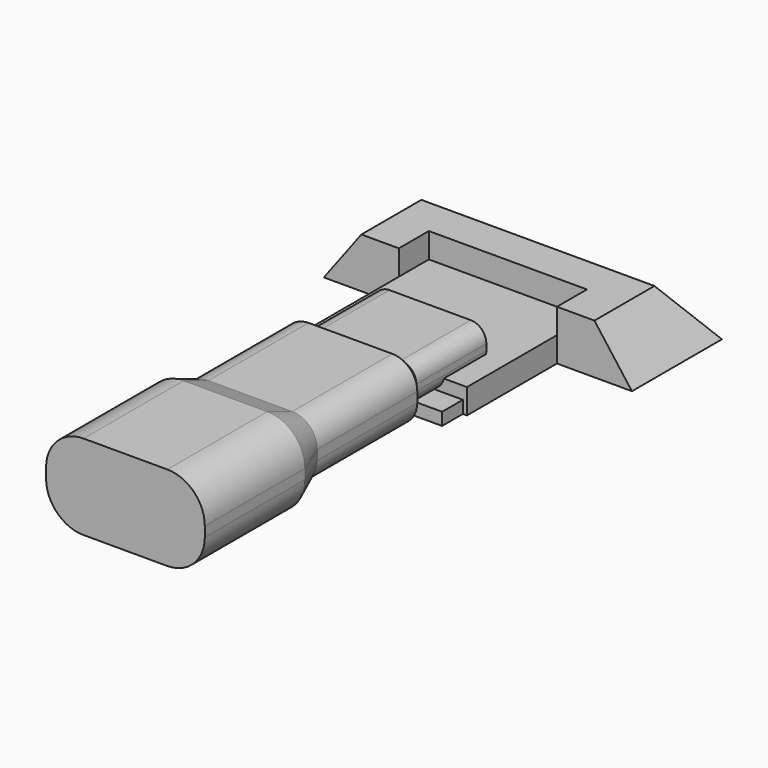
from build123d import *

# Parameters (mm, degrees)
SKETCH_W            = 12
SKETCH_H            = 13.66
PAD_DEPTH           = 1
PAD001_DEPTH        = 7
SKETCH002_R         = 0.5
POCKET_DEPTH        = 1.001
LINEARPATTERN_COUNT = 4
LINEARPATTERN_PITCH = 2.666667
SKETCH007_W         = 12.65
SKETCH007_H         = 2
PAD004_DEPTH        = 12
PAD002_DEPTH        = 10
PAD003_DEPTH        = 10


with BuildPart() as obj1:
    # Sketch → Pad (new body)
    with BuildSketch(Plane.XY):
        Rectangle(SKETCH_W, SKETCH_H)
    extrude(amount=PAD_DEPTH)

    # Sketch001 (on Face3 of Pad) → Pad001 (join)
    with BuildSketch(Plane.XZ.offset(7.53)):
        with BuildLine():
            Line((-3.25, 4), (3.25, 4))
            ThreePointArc((4.5, 2.75), (4.133883, 3.633883), (3.25, 4))
            Line((4.5, 2.75), (4.5, 2.25))
            ThreePointArc((3.25, 1), (4.133883, 1.366117), (4.5, 2.25))
            Line((3.25, 1), (-3.25, 1))
            ThreePointArc((-4.5, 2.25), (-4.133883, 1.366117), (-3.25, 1))
            Line((-4.5, 2.25), (-4.5, 2.75))
            ThreePointArc((-3.25, 4), (-4.133883, 3.633883), (-4.5, 2.75))
        make_face()
    extrude(amount=-PAD001_DEPTH)

    # Sketch002 (on Face5 of Pad001) → Pocket (cut, through all)
    with BuildSketch(Plane.XY.offset(1)):
        with Locations((-4, 4.83)):
            Circle(SKETCH002_R)
    pocket = extrude(amount=-POCKET_DEPTH, mode=Mode.SUBTRACT)

    # LinearPattern: Pocket ×4
    with Locations(*[(i * LINEARPATTERN_PITCH, 0, 0) for i in range(1, LINEARPATTERN_COUNT)]):
        add(pocket, mode=Mode.SUBTRACT)


with BuildPart() as obj2:
    # Sketch003 → AdditiveLoft section 0
    with BuildSketch(Plane.XY.offset(4)):
        Polygon((-9.325, 10.25), (9.325, 10.25), (9.325, 4.25), (6.325, 4.25), (6.325, 7.25), (-6.325, 7.25), (-6.325, 4.25), (-9.325, 4.25), align=None)
    # Sketch004 → AdditiveLoft section 1
    with BuildSketch(Plane.XY):
        Polygon((-12.325, 13.25), (12.325, 13.25), (12.325, 4.25), (6.325, 4.25), (6.325, 7.25), (-6.325, 7.25), (-6.325, 4.25), (-12.325, 4.25), align=None)
    loft()

    # Sketch007 (on Face7 of AdditiveLoft) → Pad004 (new body)
    with BuildSketch(Plane.XZ.offset(-7.25)):
        with Locations((0, 1)):
            Rectangle(SKETCH007_W, SKETCH007_H)
    extrude(amount=PAD004_DEPTH)


with BuildPart() as obj3:
    # Sketch005 → AdditiveLoft001 section 0
    with BuildSketch(Plane.XZ.offset(3)):
        with BuildLine():
            ThreePointArc((-3.35, 5.9), (-5.47132, 5.02132), (-6.35, 2.9))
            Line((-6.35, 2.1), (-6.35, 2.9))
            ThreePointArc((-6.35, 2.1), (-5.47132, -0.02132), (-3.35, -0.9))
            Line((3.35, -0.9), (-3.35, -0.9))
            ThreePointArc((3.35, -0.9), (5.47132, -0.02132), (6.35, 2.1))
            Line((6.35, 2.9), (6.35, 2.1))
            ThreePointArc((6.35, 2.9), (5.47132, 5.02132), (3.35, 5.9))
            Line((-3.35, 5.9), (3.35, 5.9))
        make_face()
    # Sketch006 → AdditiveLoft001 section 1
    with BuildSketch(Plane.XZ.offset(0.5)):
        with BuildLine():
            ThreePointArc((-3.35, 4.9), (-4.764214, 4.314214), (-5.35, 2.9))
            Line((-5.35, 2.1), (-5.35, 2.9))
            ThreePointArc((-5.35, 2.1), (-4.764214, 0.685786), (-3.35, 0.1))
            Line((3.35, 0.1), (-3.35, 0.1))
            ThreePointArc((3.35, 0.1), (4.764214, 0.685786), (5.35, 2.1))
            Line((5.35, 2.9), (5.35, 2.1))
            ThreePointArc((5.35, 2.9), (4.764214, 4.314214), (3.35, 4.9))
            Line((-3.35, 4.9), (3.35, 4.9))
        make_face()
    loft()

    # AdditiveLoft001 Face3 → Pad002 (new)
    with BuildSketch(Plane(origin=(0, -0.5, 2.5), x_dir=(1, 0, 0), z_dir=(0, 1, 0))):
        with BuildLine():
            ThreePointArc((-5.35, -0.4), (-4.764214, -1.814214), (-3.35, -2.4))
            Line((-3.35, -2.4), (3.35, -2.4))
            ThreePointArc((3.35, -2.4), (4.764214, -1.814214), (5.35, -0.4))
            Line((5.35, -0.4), (5.35, 0.4))
            ThreePointArc((5.35, 0.4), (4.764214, 1.814214), (3.35, 2.4))
            Line((3.35, 2.4), (-3.35, 2.4))
            ThreePointArc((-3.35, 2.4), (-4.764214, 1.814214), (-5.35, 0.4))
            Line((-5.35, 0.4), (-5.35, -0.4))
        make_face()
    extrude(amount=PAD002_DEPTH)

    # Pad002 Face1 → Pad003 (add)
    with BuildSketch(Plane(origin=(0, -3, 2.5), x_dir=(-1, 0, 0), z_dir=(0, -1, 0))):
        with BuildLine():
            ThreePointArc((3.35, -3.4), (5.47132, -2.52132), (6.35, -0.4))
            Line((6.35, -0.4), (6.35, 0.4))
            ThreePointArc((6.35, 0.4), (5.47132, 2.52132), (3.35, 3.4))
            Line((3.35, 3.4), (-3.35, 3.4))
            ThreePointArc((-3.35, 3.4), (-5.47132, 2.52132), (-6.35, 0.4))
            Line((-6.35, 0.4), (-6.35, -0.4))
            ThreePointArc((-6.35, -0.4), (-5.47132, -2.52132), (-3.35, -3.4))
            Line((-3.35, -3.4), (3.35, -3.4))
        make_face()
    extrude(amount=PAD003_DEPTH)


with BuildPart() as obj3_1:
    # Body003 placement: moved
    add(obj3.part.moved(Location((0, -18, 0))))


solid = Compound([obj1.part, obj2.part, obj3_1.part])
